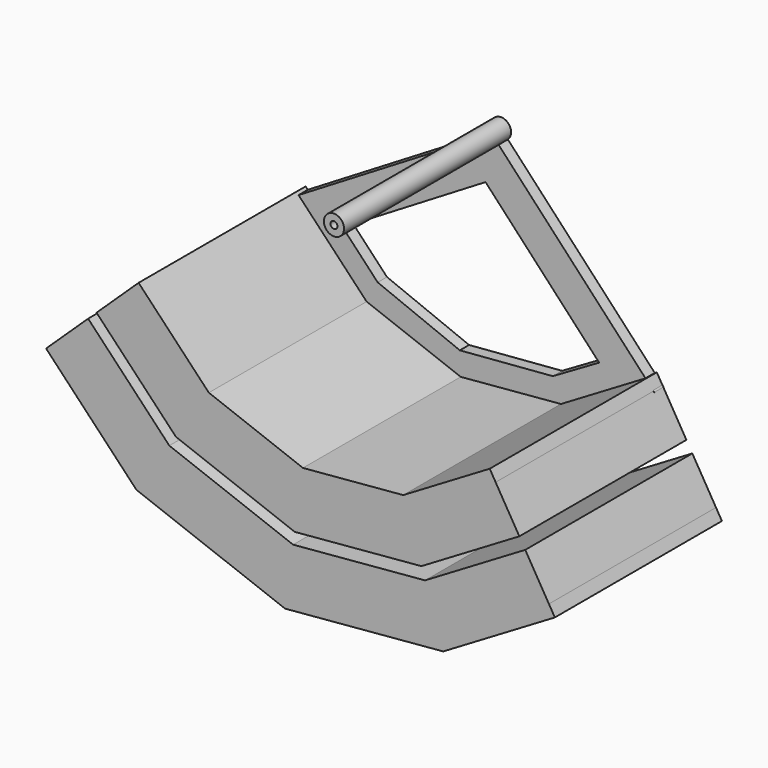
from build123d import *

# Parameters (mm, degrees)
F0_R     = 11.0109
F0_R_2   = 3.81
F2_DEPTH = 228.6
F3_DEPTH = 228.6
F5_DEPTH = 12.7


with BuildPart() as f2:
    # F0 (on Front) → F2 (new body)
    with BuildSketch(Plane.XZ):
        Circle(F0_R)
        Circle(F0_R_2, mode=Mode.SUBTRACT)
        Polygon((202.893787, -234.030817), (176.97243, -190.341879), (79.74821, -248.02659), (-35.764049, -258.065688), (-144.192801, -216.991711), (-223.061151, -133.993542), (-259.886671, -168.9867), (-173.031361, -260.390053), (-42.916859, -309.678825), (95.697852, -297.631908), align=None)
        Polygon((176.97243, -190.341879), (170.492091, -179.419645), (75.7608, -235.625261), (-33.975847, -245.162403), (-136.983161, -206.142125), (-213.854771, -125.245253), (-223.061151, -133.993542), (-144.192801, -216.991711), (-35.764049, -258.065688), (79.74821, -248.02659), align=None)
    extrude(amount=F2_DEPTH)


with BuildPart() as f3:
    # F1 (on Front) → F3 (new body)
    with BuildSketch(Plane.XZ):
        Polygon((-209.079561, -314.637981), (-180.241001, -271.239639), (-269.093051, -177.734989), (-305.918571, -212.728147), align=None)
        Polygon((-44.705062, -322.58211), (-180.241001, -271.239639), (-209.079561, -314.637981), (-51.857872, -374.195247), align=None)
        Polygon((99.685263, -310.033238), (-44.705062, -322.58211), (-51.857872, -374.195247), (115.634905, -359.638556), align=None)
        Polygon((-51.857872, -374.195247), (-209.079561, -314.637981), (-305.918571, -212.728147), (-315.124951, -221.476436), (-216.289201, -325.487566), (-53.646074, -387.098532), (119.622316, -372.039885), (241.775823, -299.564223), (235.295483, -288.641989), (115.634905, -359.638556), align=None)
        Polygon((209.374127, -244.953051), (99.685263, -310.033238), (115.634905, -359.638556), (235.295483, -288.641989), align=None)
    extrude(amount=F3_DEPTH)


with BuildPart() as f5:
    # F4 (on Front) → F5 (new body)
    with BuildSketch(Plane.XZ):
        Polygon((177.928209, -191.137135), (0, 0), (-223.293483, -134.863019), (-146.877755, -215.852249), (-40.88226, -258.613564), (78.496183, -248.988504), align=None)
        Polygon((-6.797378, -48.61533), (117.54571, -182.189324), (66.812401, -211.70689), (-34.973862, -219.913555), (-124.889301, -183.639349), (-163.17452, -143.06275), align=None, mode=Mode.SUBTRACT)
    extrude(amount=F5_DEPTH)


solid = Compound([f2.part, f3.part, f5.part])
